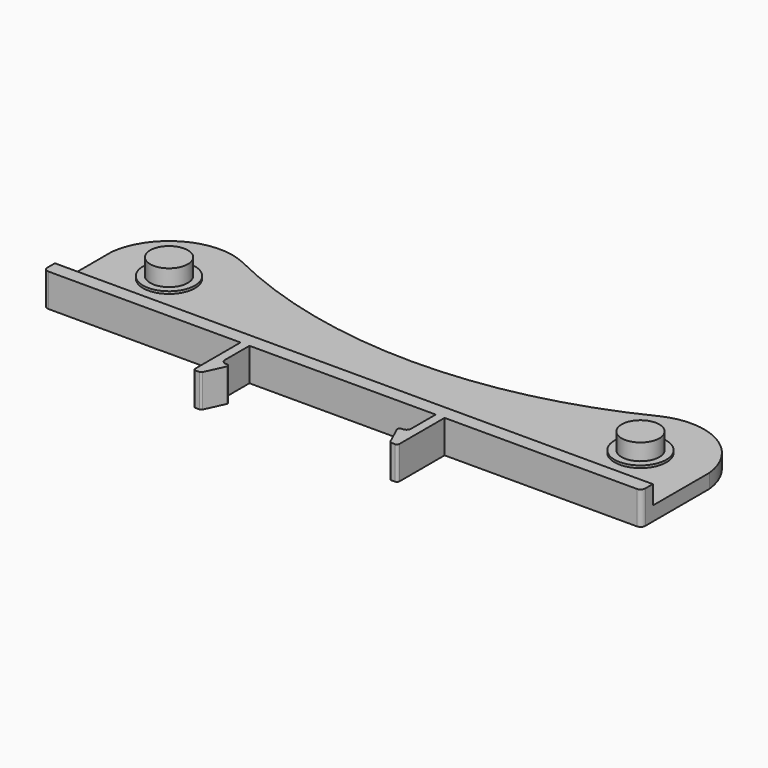
from build123d import *

# Parameters (mm, degrees)
F0_R     = 5.500353
F1_DEPTH = 3
F0_R_2   = 4.000323
F2_DEPTH = 3.5
F3_DEPTH = 7
F4_R     = 1
F5_R     = 0.5


with BuildPart() as f1:
    # F0 (on Top) → F1 (new body)
    with BuildSketch(Plane.XY):
        with BuildLine():
            ThreePointArc((0.003197, 9.6562), (-22.731522, 12.261138), (-44.2788, 19.966198))
            ThreePointArc((-44.2788, 19.966198), (-56.566858, 19.530956), (-63.405201, 9.312206))
            Line((-63.405201, 9.312206), (-63.405201, -5.757801))
            Line((-63.405201, -5.757801), (0.000519, -5.757801))
            Line((0.000519, -5.757801), (0.003197, 9.6562))
        make_face()
        with Locations((-49.99641, 7.740587)):
            Circle(F0_R, mode=Mode.SUBTRACT)
    extrude(amount=F1_DEPTH)

    # F0 (on Top) → F2 (join)
    with BuildSketch(Plane.XY):
        with Locations((-49.99641, 7.740587)):
            Circle(F0_R)
        with Locations((-49.997022, 7.740204)):
            Circle(F0_R_2, mode=Mode.SUBTRACT)
    extrude(amount=F2_DEPTH)

    # F0 (on Top) → F3 (join)
    with BuildSketch(Plane.XY):
        Polygon((-19.75, -8.743801), (-21.641288, -8.743801), (-21.641288, -21.243801), (-20.041288, -21.243801), (-17.75, -16.243801), (-19.75, -16.243801), align=None)
        with Locations((-49.997022, 7.740204)):
            Circle(F0_R_2)
        Polygon((0.000519, -5.757801), (-63.405201, -5.757801), (-63.405201, -8.743801), (-21.641288, -8.743801), (-19.75, -8.743801), (0, -8.743801), align=None)
    extrude(amount=F3_DEPTH)

    # F4
    f4_edges = [f1.edges().sort_by_distance(p)[0] for p in [
        (-19.75, -16.243801, 3.5),
        (-63.405201, -8.743801, 3.5),
    ]]
    fillet(f4_edges, radius=F4_R)

    # F5
    f5_edges = [f1.edges().sort_by_distance(p)[0] for p in [
        (-17.75, -16.243801, 3.5),
        (-20.041288, -21.243801, 3.5),
        (-21.641288, -21.243801, 3.5),
    ]]
    fillet(f5_edges, radius=F5_R)

    # F6: F1 across plane


with BuildPart() as f1_1:
    add(f1.part)
    add(f1.part.mirror(Plane.YZ))


solid = f1_1.part
